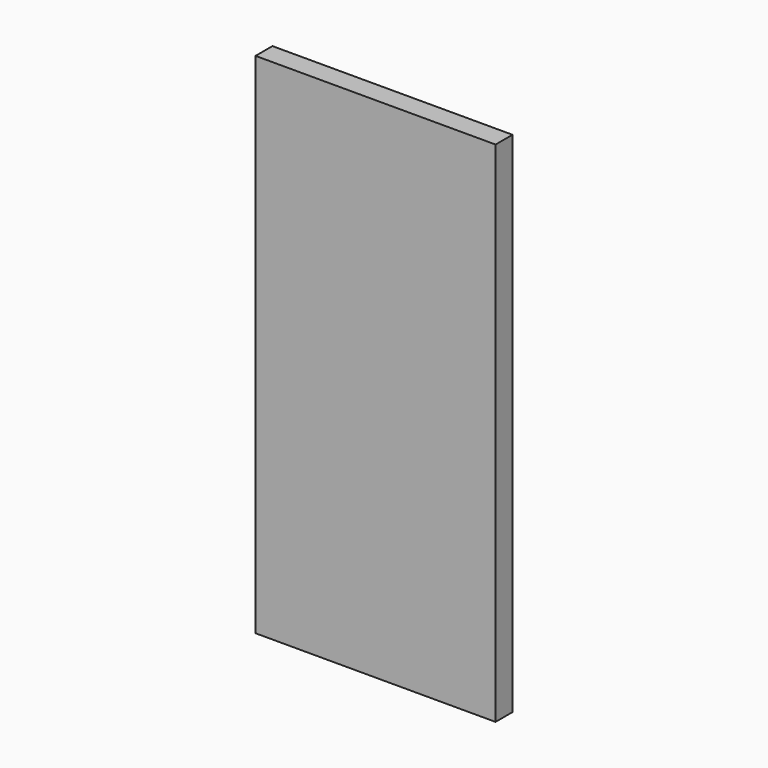
from build123d import *

# Parameters (mm, degrees)
F0_W     = 215.9
F0_H     = 457.2
F1_DEPTH = 19.05
F2_W     = 182.078071
F2_H     = 109.457333
F3_DEPTH = 6.35


with BuildPart() as f1:
    # F0 (on Front) → F1 (new body)
    with BuildSketch(Plane.XZ):
        with Locations((3.708398, 221.4372)):
            Rectangle(F0_W, F0_H)
    extrude(amount=F1_DEPTH)

    # F2 (on face) → F3 (join)
    with BuildSketch(Plane.XZ.offset(19.05)):
        with Locations((1.603443, 395.308533)):
            Rectangle(F2_W, F2_H)
    extrude(amount=-F3_DEPTH)


solid = f1.part
